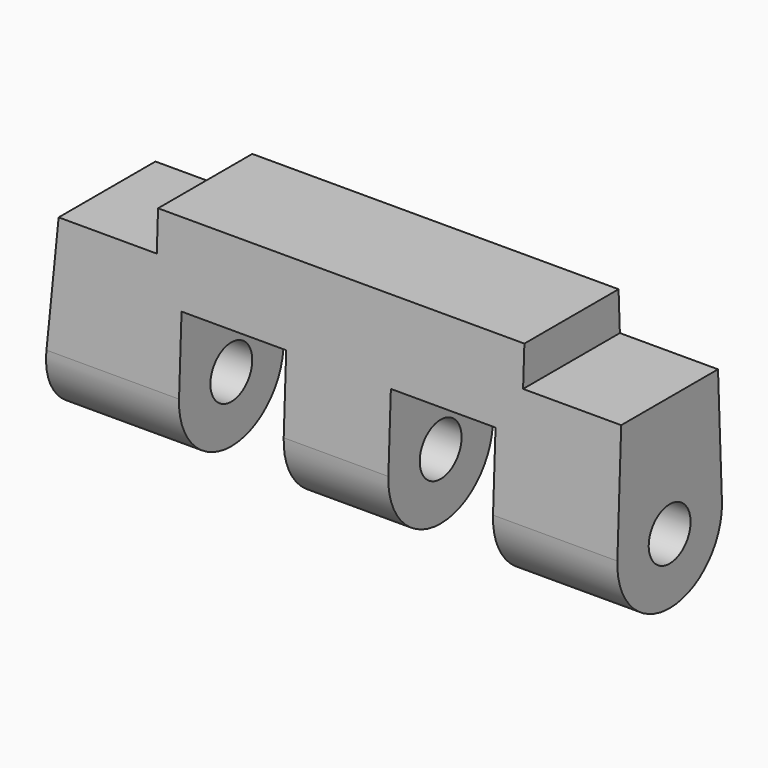
from build123d import *

# Parameters (mm, degrees)
F0_R     = 1
F1_DEPTH = 22.5
F2_W     = 4
F2_H     = 5.5
F3_DEPTH = 12.5
F4_W     = 4
F4_H     = 2.8967225653
F4_H_2   = 2.6032774347
F5_DEPTH = 12.5


with BuildPart() as f1:
    # F0 (on Right) → F1 (new body)
    with BuildSketch(Plane.YZ):
        with BuildLine():
            Line((-2.25, 6.0981554588), (-2.4978658434, 0.1032774347))
            ThreePointArc((-2.4978658434, 0.1032774347), (0, -2.5), (2.4978658434, 0.1032774347))
            Line((2.4978658434, 0.1032774347), (2.25, 6.0981554588))
            Line((2.25, 6.0981554588), (-2.25, 6.0981554588))
        make_face()
        Circle(F0_R, mode=Mode.SUBTRACT)
    extrude(amount=F1_DEPTH)

    # F2 (on Front) → F3 (intersect, symmetric)
    with BuildSketch(Plane.XZ):
        Polygon((18.25, 6.0981554588), (4.25, 6.0981554588), (4.25, 4.5981554588), (0.5, 4.5981554588), (0, -2.5), (5.25, -2.5), (5.25, 3), (9.25, 3), (9.25, -2.5), (13.25, -2.5), (13.25, 3), (17.25, 3), (17.25, -2.5), (22.0024140141, -2.5), (22.0008491054, 4.5981554588), (18.25, 4.5981554588), align=None)
        Polygon((5.25, -2.5), (0, -2.5), (5.25, -3.4987433143), align=None)
        Polygon((21.3468169383, -4.6197534539), (22.0024140141, -2.5), (17.25, -2.5), (17.25, -4.6197534539), align=None)
        with Locations((7.25, 0.25)):
            Rectangle(F2_W, F2_H)
        with Locations((15.25, 0.25)):
            Rectangle(F2_W, F2_H)
        Polygon((13.25, -2.5), (9.25, -2.5), (9.25, -3.4987433143), (13.25, -4.6197534539), align=None)
    extrude(amount=F3_DEPTH, both=True, mode=Mode.INTERSECT)

    # F4 (on Front) → F5 (cut, symmetric)
    with BuildSketch(Plane.XZ):
        with Locations((7.25, 1.5516387174)):
            Rectangle(F4_W, F4_H)
        Polygon((9.25, -2.5), (5.25, -2.5), (5.25, -7), (17.25, -7), (17.25, -2.5), (13.25, -2.5), (13.25, -5), (9.25, -5), align=None)
        with Locations((7.25, -1.1983612826)):
            Rectangle(F4_W, F4_H_2)
        with Locations((15.25, 1.5516387174)):
            Rectangle(F4_W, F4_H)
        with Locations((15.25, -1.1983612826)):
            Rectangle(F4_W, F4_H_2)
    extrude(amount=F5_DEPTH, both=True, mode=Mode.SUBTRACT)


solid = f1.part
